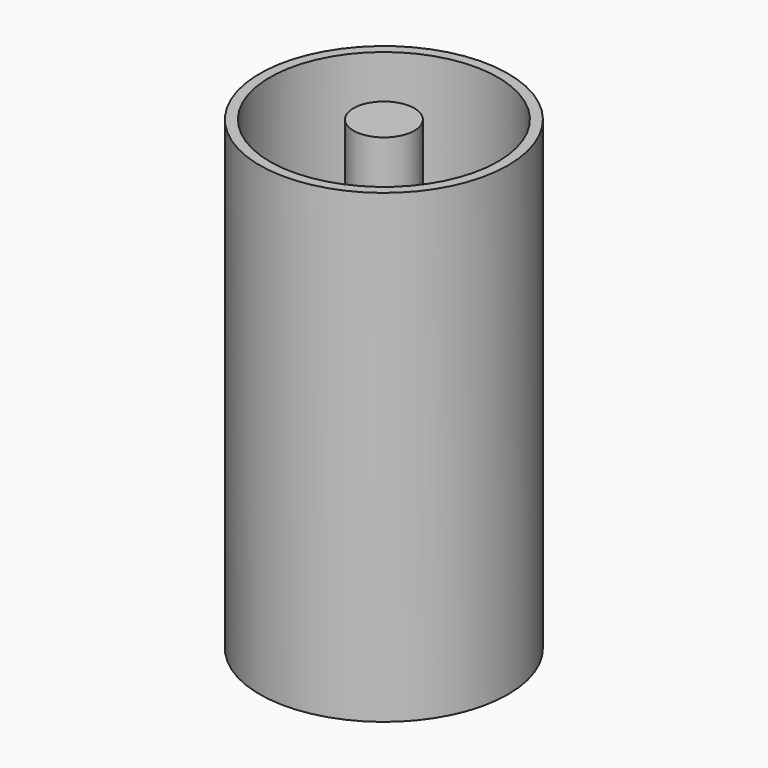
from build123d import *

# Parameters (mm, degrees)
F0_R     = 39.18751
F1_DEPTH = 600
F0_R_2   = 160
F0_R_3   = 146.953164
F2_DEPTH = 600


with BuildPart() as f1:
    # F0 (on Top) → F1 (new body)
    with BuildSketch(Plane.XY):
        Circle(F0_R)
    extrude(amount=F1_DEPTH)


with BuildPart() as f2:
    # F0 (on Top) → F2 (new body)
    with BuildSketch(Plane.XY):
        Circle(F0_R_2)
        Circle(F0_R_3, mode=Mode.SUBTRACT)
    extrude(amount=F2_DEPTH)


solid = Compound([f1.part, f2.part])
